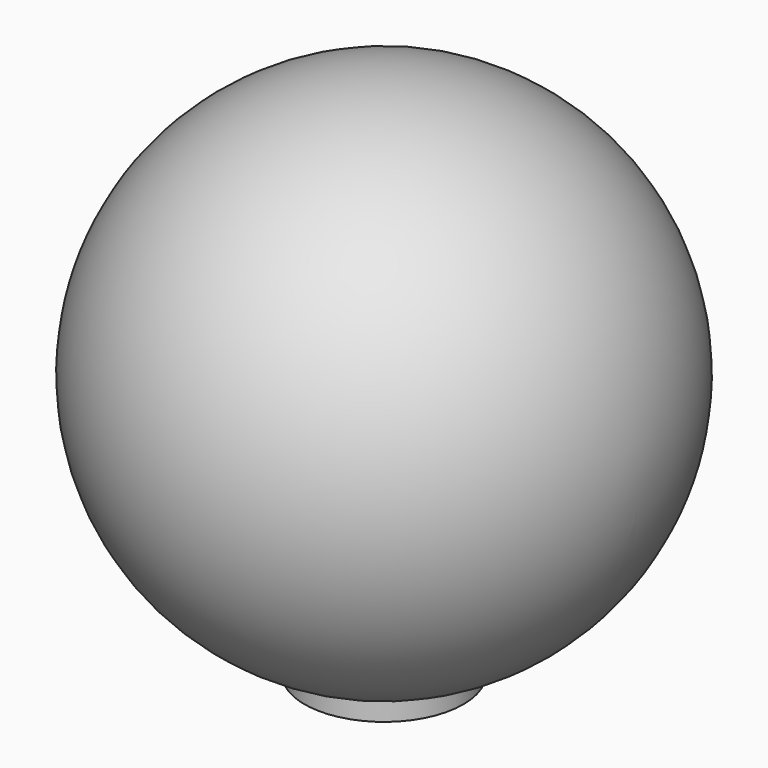
from build123d import *

# Parameters (mm, degrees)
F3_R     = 4.35
F4_DEPTH = 2


with BuildPart() as f1:
    # F0 (on Front) → F1 (revolve)
    with BuildSketch(Plane.XZ):
        with BuildLine():
            ThreePointArc((-14, 0), (0, -14), (14, 0))
            Line((14, 0), (-14, 0))
        make_face()
    revolve(axis=Axis((0, 0, 0), (1, 0, 0)))

    # F3 (on offset) → F4 (join)
    with BuildSketch(Plane.XY.offset(-12.5)):
        Circle(F3_R)
    extrude(amount=-F4_DEPTH)


solid = f1.part
